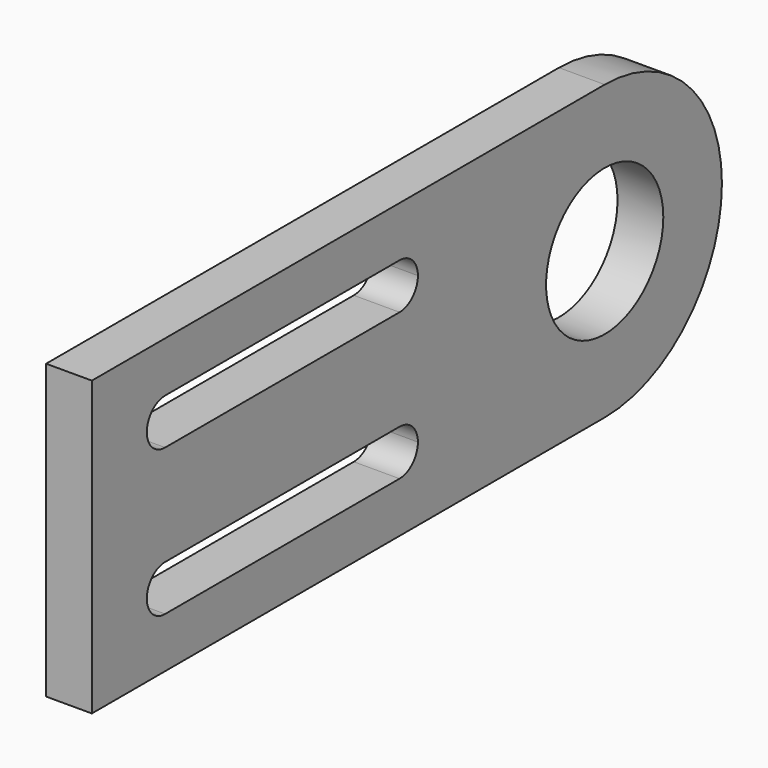
from build123d import *

# Parameters (mm, degrees)
F0_R     = 2.54
F1_DEPTH = 1.5875


with BuildPart() as f1:
    # F0 (on Right) → F1 (new body)
    with BuildSketch(Plane.YZ):
        with BuildLine():
            Line((10.213834, 5.08), (-12.011166, 5.08))
            Line((-12.011166, 5.08), (-12.011166, -5.08))
            Line((-12.011166, -5.08), (10.213834, -5.08))
            ThreePointArc((10.213834, -5.08), (5.133834, 0), (10.213834, 5.08))
        make_face()
        with BuildLine():
            ThreePointArc((-8.836166, -3.33375), (-9.629916, -2.54), (-8.836166, -1.74625))
            Line((-8.836166, -1.74625), (1.323834, -1.74625))
            ThreePointArc((1.323834, -1.74625), (1.8851, -1.978734), (2.117584, -2.54))
            ThreePointArc((2.117584, -2.54), (1.8851, -3.101266), (1.323834, -3.33375))
            Line((1.323834, -3.33375), (-8.836166, -3.33375))
        make_face(mode=Mode.SUBTRACT)
        with BuildLine():
            ThreePointArc((-8.836166, 1.74625), (-9.629916, 2.54), (-8.836166, 3.33375))
            Line((-8.836166, 3.33375), (1.323834, 3.33375))
            ThreePointArc((1.323834, 3.33375), (1.8851, 3.101266), (2.117584, 2.54))
            ThreePointArc((2.117584, 2.54), (1.8851, 1.978734), (1.323834, 1.74625))
            Line((1.323834, 1.74625), (-8.836166, 1.74625))
        make_face(mode=Mode.SUBTRACT)
        with BuildLine():
            ThreePointArc((15.293834, 0), (13.805936, 3.592102), (10.213834, 5.08))
            ThreePointArc((10.213834, 5.08), (5.133834, 0), (10.213834, -5.08))
            ThreePointArc((10.213834, -5.08), (13.805936, -3.592102), (15.293834, 0))
        make_face()
        with Locations((10.213834, 0)):
            Circle(F0_R, mode=Mode.SUBTRACT)
    extrude(amount=F1_DEPTH)


solid = f1.part
